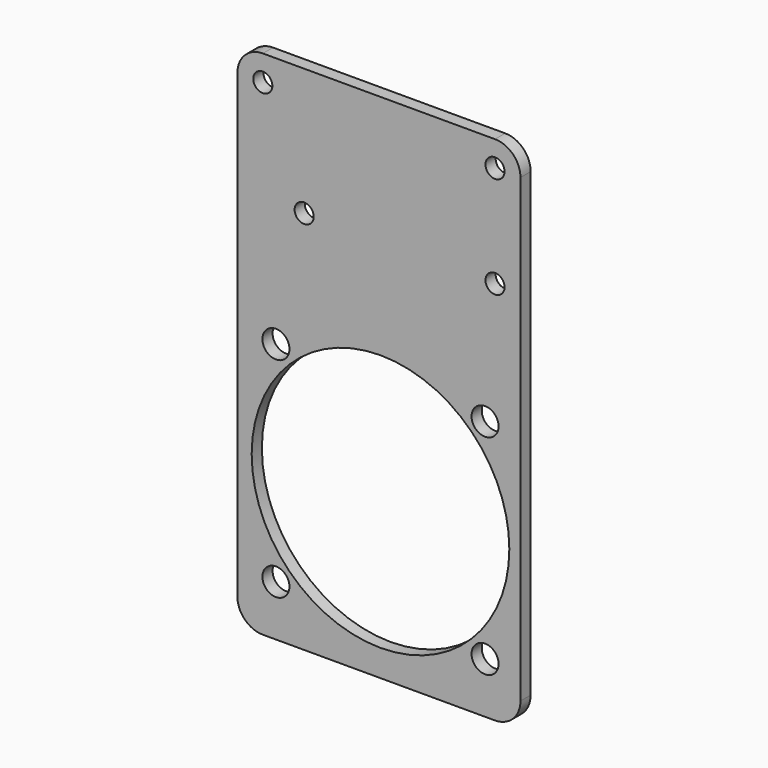
from build123d import *

# Parameters (mm, degrees)
F0_W     = 141.2875
F0_H     = 255.393249
F0_R     = 6.746875
F0_R_2   = 64.29375
F0_R_3   = 4.7625
F1_DEPTH = 6.35
F2_R     = 12.7


with BuildPart() as f1:
    # F0 (on Front) → F1 (new body)
    with BuildSketch(Plane.XZ):
        with Locations((-57.94375, -114.996624)):
            Rectangle(F0_W, F0_H)
        with Locations((-109.343249, -217.293249)):
            Circle(F0_R, mode=Mode.SUBTRACT)
        with Locations((-4.956751, -217.293249)):
            Circle(F0_R, mode=Mode.SUBTRACT)
        with Locations((-57.15, -165.1)):
            Circle(F0_R_2, mode=Mode.SUBTRACT)
        with Locations((-109.343249, -112.906751)):
            Circle(F0_R, mode=Mode.SUBTRACT)
        with Locations((-95.25, -50.8)):
            Circle(F0_R_3, mode=Mode.SUBTRACT)
        with Locations((-115.8875, 0)):
            Circle(F0_R_3, mode=Mode.SUBTRACT)
        with Locations((-4.956751, -112.906751)):
            Circle(F0_R, mode=Mode.SUBTRACT)
        with Locations((0, -50.8)):
            Circle(F0_R_3, mode=Mode.SUBTRACT)
        Circle(F0_R_3, mode=Mode.SUBTRACT)
    extrude(amount=F1_DEPTH)

    # F2
    f2_edges = [f1.edges().sort_by_distance(p)[0] for p in [
        (-128.5875, -3.175, -242.693249),
        (12.7, -3.175, -242.693249),
        (12.7, -3.175, 12.7),
        (-128.5875, -3.175, 12.7),
    ]]
    fillet(f2_edges, radius=F2_R)


solid = f1.part
